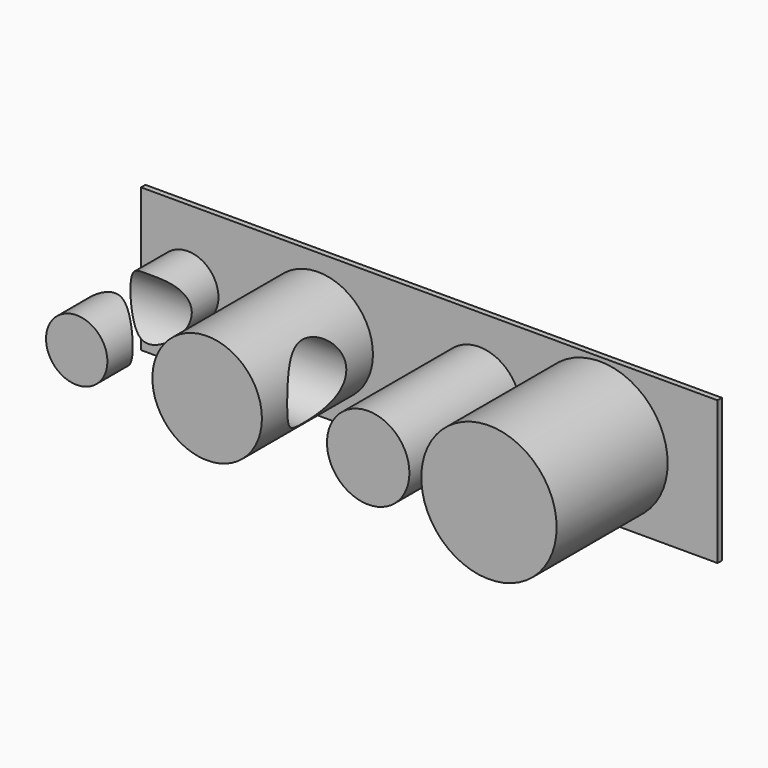
from build123d import *

# Parameters (mm, degrees)
F0_W     = 105.501212
F0_H     = 26.227956
F1_DEPTH = 1
F2_R     = 5.616649
F2_R_2   = 10.02075
F2_R_3   = 7.543587
F2_R_4   = 12.385123
F3_DEPTH = 25.4
F4_R     = 6.76037
F5_DEPTH = 99.568


with BuildPart() as f1:
    # F0 (on Front) → F1 (new body)
    with BuildSketch(Plane.XZ):
        Rectangle(F0_W, F0_H)
    extrude(amount=F1_DEPTH)

    # F2 (on face) → F3 (join)
    with BuildSketch(Plane.XZ.offset(1)):
        with Locations((-44.204421, 0)):
            Circle(F2_R)
        with Locations((-20.334031, 0)):
            Circle(F2_R_2)
        with Locations((9.135582, 0)):
            Circle(F2_R_3)
        with Locations((31.237792, 0)):
            Circle(F2_R_4)
    extrude(amount=F3_DEPTH)

    # F4 (on Right) → F5 (cut)
    with BuildSketch(Plane.YZ):
        with Locations((-13.850718, 0)):
            Circle(F4_R)
    extrude(amount=-F5_DEPTH, mode=Mode.SUBTRACT)


solid = f1.part
